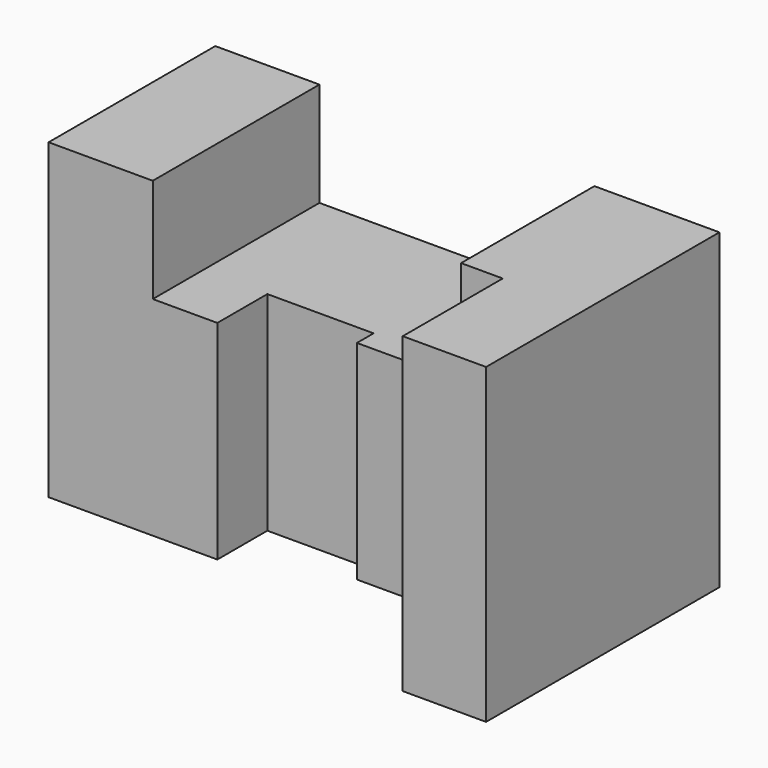
from build123d import *

# Parameters (mm, degrees)
F1_DEPTH = 50
F2_W     = 35
F2_H     = 50
F3_DEPTH = 25.5
F4_W     = 40
F4_H     = 50
F5_DEPTH = 35
F6_W     = 10
F6_H     = 40
F7_DEPTH = 25
F8_W     = 70
F8_H     = 75
F9_DEPTH = 20


with BuildPart() as f1:
    # F0 (on Front) → F1 (new body)
    with BuildSketch(Plane.XZ):
        Polygon((0, 75), (0, 0), (40.5, 0), (40.5, 50), (25, 50), (25, 75), align=None)
    extrude(amount=F1_DEPTH)

    # F2 (on face) → F3 (join)
    with BuildSketch(Plane.YZ.offset(40.5)):
        with Locations((-17.5, 25)):
            Rectangle(F2_W, F2_H)
    extrude(amount=F3_DEPTH)

    # F4 (on face) → F5 (join)
    with BuildSketch(Plane.YZ.offset(66)):
        with Locations((-20, 25)):
            Rectangle(F4_W, F4_H)
    extrude(amount=F5_DEPTH)

    # F6 (on face) → F7 (join)
    with BuildSketch(Plane.XY.offset(50)):
        with Locations((96, -20)):
            Rectangle(F6_W, F6_H)
    extrude(amount=F7_DEPTH)

    # F8 (on face) → F9 (join)
    with BuildSketch(Plane.YZ.offset(101)):
        with Locations((-35, 37.5)):
            Rectangle(F8_W, F8_H)
    extrude(amount=F9_DEPTH)


solid = f1.part
